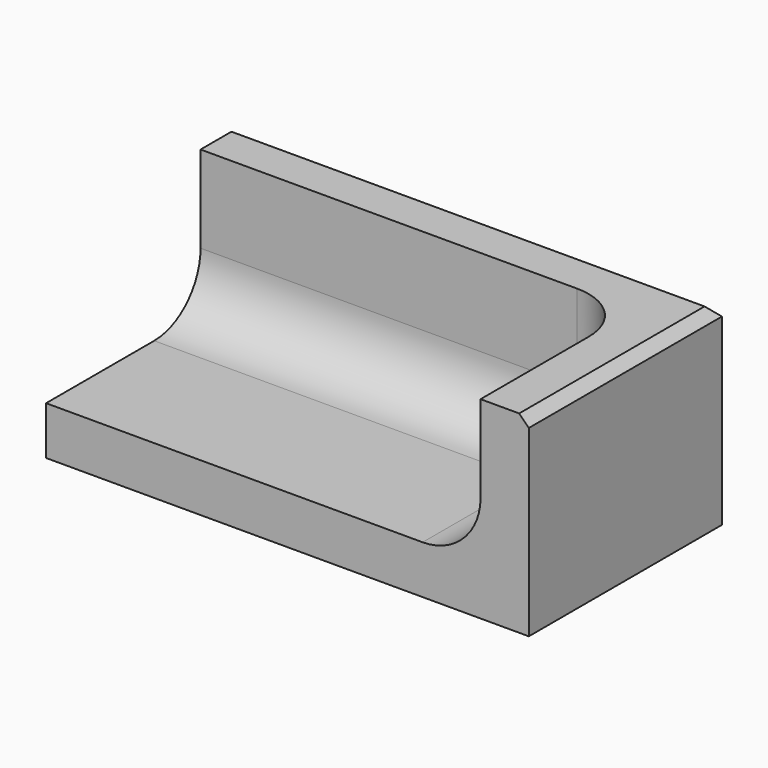
from build123d import *

# Parameters (mm, degrees)
F0_W     = 63.5
F0_H     = 31.75
F1_DEPTH = 25.4
F2_W     = 57.15
F2_H     = 25.4
F3_DEPTH = 19.05
F4_R     = 7.62
F5_SIZE  = 1.27


with BuildPart() as f1:
    # F0 (on Top) → F1 (new body)
    with BuildSketch(Plane.XY):
        with Locations((31.75, 15.875)):
            Rectangle(F0_W, F0_H)
    extrude(amount=F1_DEPTH)

    # F2 (on face) → F3 (cut)
    with BuildSketch(Plane.XY.offset(25.4)):
        with Locations((28.575, 12.7)):
            Rectangle(F2_W, F2_H)
        with Locations((28.575, 12.7)):
            Rectangle(F2_W, F2_H)
    extrude(amount=-F3_DEPTH, mode=Mode.SUBTRACT)

    # F4
    f4_edges = [f1.edges().sort_by_distance(p)[0] for p in [
        (28.575, 25.4, 6.35),
        (57.15, 12.7, 6.35),
        (57.15, 25.4, 15.875),
    ]]
    fillet(f4_edges, radius=F4_R)

    # F5
    f5_edges = [f1.edges().sort_by_distance(p)[0] for p in [
        (63.5, 15.875, 25.4),
        (31.75, 31.75, 25.4),
    ]]
    chamfer(f5_edges, length=F5_SIZE)


solid = f1.part
